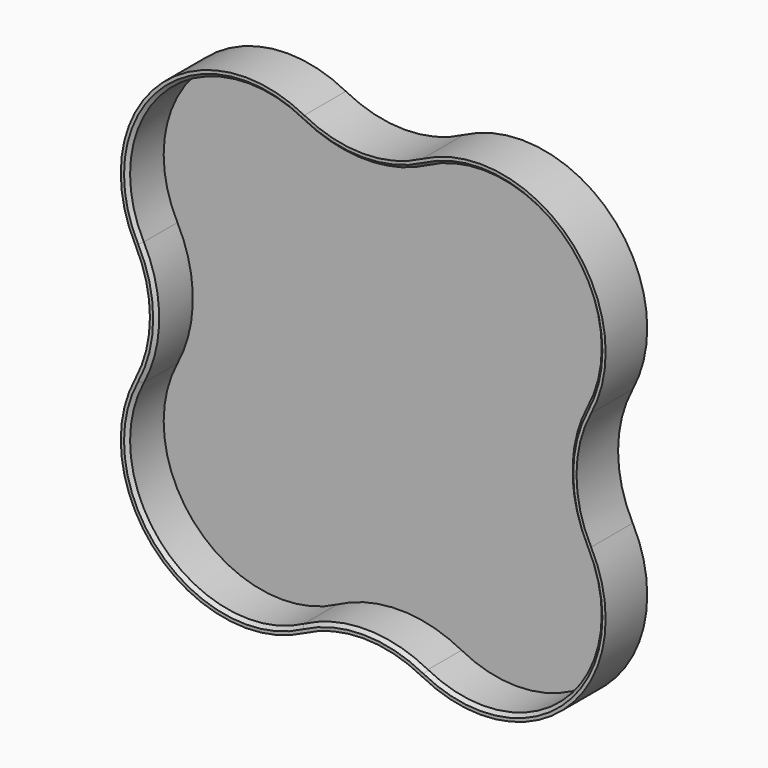
from build123d import *

# Parameters (mm, degrees)
F1_DEPTH = 1
F3_DEPTH = 6.858
F4_SIZE  = 0.508


with BuildPart() as f1:
    # F0 (on Front) → F1 (new body)
    with BuildSketch(Plane.XZ):
        with BuildLine():
            ThreePointArc((-8.910079, 34.455263), (-31.114318, 31.114318), (-34.455263, 8.910079))
            ThreePointArc((-34.455263, 8.910079), (-32.243107, 0), (-34.455263, -8.910079))
            ThreePointArc((-34.455263, -8.910079), (-31.114318, -31.114318), (-8.910079, -34.455263))
            ThreePointArc((-8.910079, -34.455263), (0, -32.243107), (8.910079, -34.455263))
            ThreePointArc((8.910079, -34.455263), (31.114318, -31.114318), (34.455263, -8.910079))
            ThreePointArc((34.455263, -8.910079), (32.243107, 0), (34.455263, 8.910079))
            ThreePointArc((34.455263, 8.910079), (31.114318, 31.114318), (8.910079, 34.455263))
            ThreePointArc((8.910079, 34.455263), (0, 32.243107), (-8.910079, 34.455263))
        make_face()
    extrude(amount=F1_DEPTH)

    # F2 (on face) → F3 (join)
    with BuildSketch(Plane.XZ.offset(1)):
        with BuildLine():
            ThreePointArc((-8.910079, 34.455263), (-31.114318, 31.114318), (-34.455263, 8.910079))
            ThreePointArc((-34.455263, 8.910079), (-32.243107, 0), (-34.455263, -8.910079))
            ThreePointArc((-34.455263, -8.910079), (-31.114318, -31.114318), (-8.910079, -34.455263))
            ThreePointArc((-8.910079, -34.455263), (0, -32.243107), (8.910079, -34.455263))
            ThreePointArc((8.910079, -34.455263), (31.114318, -31.114318), (34.455263, -8.910079))
            ThreePointArc((34.455263, -8.910079), (32.243107, 0), (34.455263, 8.910079))
            ThreePointArc((34.455263, 8.910079), (31.114318, 31.114318), (8.910079, 34.455263))
            ThreePointArc((8.910079, 34.455263), (0, 32.243107), (-8.910079, 34.455263))
        make_face()
        with BuildLine():
            ThreePointArc((-33.571386, -9.3778), (-31.243107, 0), (-33.571386, 9.3778))
            ThreePointArc((-33.571386, 9.3778), (-30.407211, 30.407211), (-9.3778, 33.571386))
            ThreePointArc((-9.3778, 33.571386), (0, 31.243107), (9.3778, 33.571386))
            ThreePointArc((9.3778, 33.571386), (30.407211, 30.407211), (33.571386, 9.3778))
            ThreePointArc((33.571386, 9.3778), (31.243107, 0), (33.571386, -9.3778))
            ThreePointArc((33.571386, -9.3778), (30.407211, -30.407211), (9.3778, -33.571386))
            ThreePointArc((9.3778, -33.571386), (0, -31.243107), (-9.3778, -33.571386))
            ThreePointArc((-9.3778, -33.571386), (-30.407211, -30.407211), (-33.571386, -9.3778))
        make_face(mode=Mode.SUBTRACT)
    extrude(amount=F3_DEPTH)

    # F4
    f4_edges = [f1.edges().sort_by_distance(p)[0] for p in [
        (-30.407211, -7.858, 30.407211),
    ]]
    chamfer(f4_edges, length=F4_SIZE)


solid = f1.part
